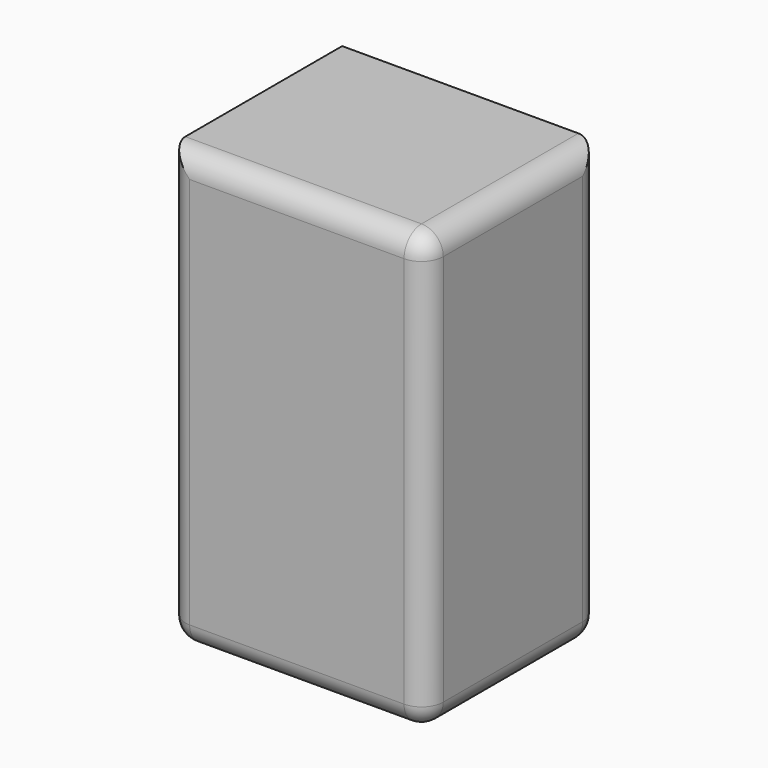
from build123d import *

# Parameters (mm, degrees)
F0_W     = 60.157363
F0_H     = 101.6
F1_DEPTH = 50.8
F2_R     = 5.08


with BuildPart() as f1:
    # F0 (on Front) → F1 (new body)
    with BuildSketch(Plane.XZ):
        with Locations((-30.078681, 30.392907)):
            Rectangle(F0_W, F0_H)
    extrude(amount=F1_DEPTH)

    # F2
    f2_edges = [f1.edges().sort_by_distance(p)[0] for p in [
        (-30.078682, -50.8, 81.192907),
        (-60.157363, -50.8, 30.392907),
        (-60.157363, -25.4, -20.407093),
        (0, -25.4, -20.407093),
        (-30.078682, 0, -20.407093),
        (-30.078682, -50.8, -20.407093),
        (0, -25.4, 81.192907),
        (0, 0, 30.392907),
        (0, -50.8, 30.392907),
    ]]
    fillet(f2_edges, radius=F2_R)


solid = f1.part
